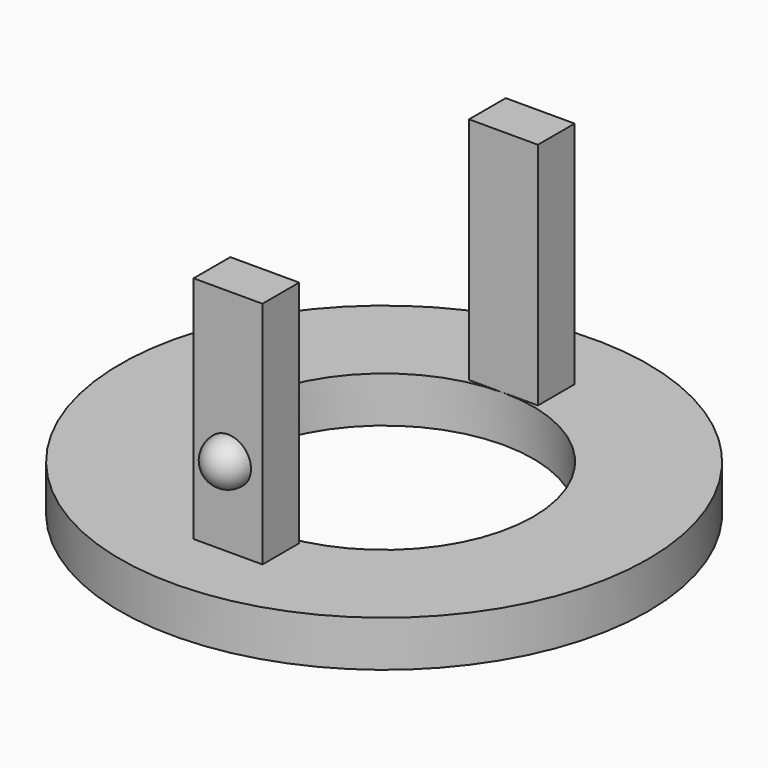
from build123d import *

# Parameters (mm, degrees)
SKETCH150_R         = 11.5
SKETCH150_R_2       = 6.5
PAD061_DEPTH        = 2
SKETCH151_W         = 3
SKETCH151_H         = 2
PAD062_DEPTH        = 10
REVOLUTION013_ANGLE = -180
REVOLUTION014_ANGLE = -180


with BuildPart() as part:
    # Sketch150 → Pad061 (new body)
    with BuildSketch(Plane.XY):
        Circle(SKETCH150_R)
        Circle(SKETCH150_R_2, mode=Mode.SUBTRACT)
    extrude(amount=PAD061_DEPTH)

    # Sketch151 (on Face4 of Pad061) → Pad062 (join)
    with BuildSketch(Plane.XY.offset(2)):
        with Locations((0, 7.5)):
            Rectangle(SKETCH151_W, SKETCH151_H)
        with Locations((0, -7.5)):
            Rectangle(SKETCH151_W, SKETCH151_H)
    extrude(amount=PAD062_DEPTH)

    # Sketch152 (on Face11 of Pad062) → Revolution013 (revolve)
    with BuildSketch(Plane.XZ.offset(8.5)):
        with BuildLine():
            ThreePointArc((0, 4.5), (1, 5.5), (0, 6.5))
            Line((0, 6.5), (0, 4.5))
        make_face()
    revolve(axis=Axis((0, -8.5, 0), (0, 0, 1)), revolution_arc=REVOLUTION013_ANGLE)

    # Sketch153 (on Face7 of Revolution013) → Revolution014 (revolve)
    with BuildSketch(Plane(origin=(0, 8.5, 0), x_dir=(-1, 0, 0), z_dir=(0, 1, 0))):
        with BuildLine():
            ThreePointArc((0, 4.5), (1, 5.5), (0, 6.5))
            Line((0, 6.5), (0, 4.5))
        make_face()
    revolve(axis=Axis((0, 8.5, 0), (0, 0, 1)), revolution_arc=REVOLUTION014_ANGLE)


solid = part.part
